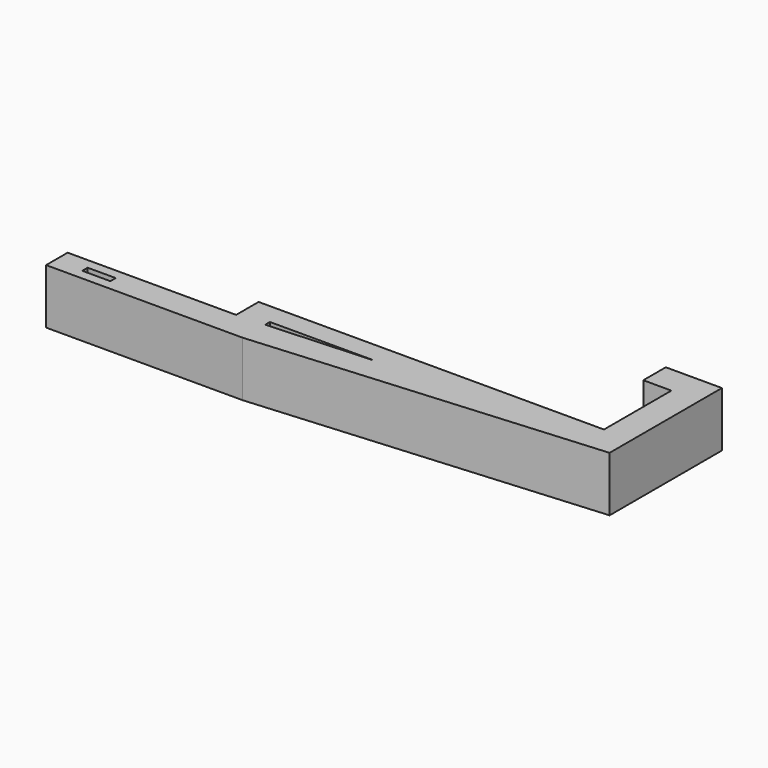
from build123d import *

# Parameters (mm, degrees)
SKETCH_W     = 5
SKETCH_H     = 1.2
PAD_DEPTH    = 9.8
POCKET_DEPTH = 9.801


with BuildPart() as part:
    # Sketch → Pad (new body)
    with BuildSketch(Plane.XY):
        Polygon((-26.871767, -5.673633), (-56.871767, -5.673633), (-56.871767, -10.473633), (-21.871767, -10.473633), (39.628233, -5.673633), (39.628233, 19.326367), (29.628233, 19.326367), (29.628233, 14.326367), (34.628233, 14.326367), (34.628233, -0.673633), (-26.871767, -0.673633), align=None)
        with Locations((-49.371767, -8.073633)):
            Rectangle(SKETCH_W, SKETCH_H, mode=Mode.SUBTRACT)
    extrude(amount=PAD_DEPTH)

    # Sketch001 → Pocket (cut, through all)
    with BuildSketch(Plane.XY.offset(9.8)):
        Polygon((-21.871767, -4.405271), (-21.871767, -5.465759), (-2.982301, -4.405271), align=None)
    extrude(amount=-POCKET_DEPTH, mode=Mode.SUBTRACT)


solid = part.part
